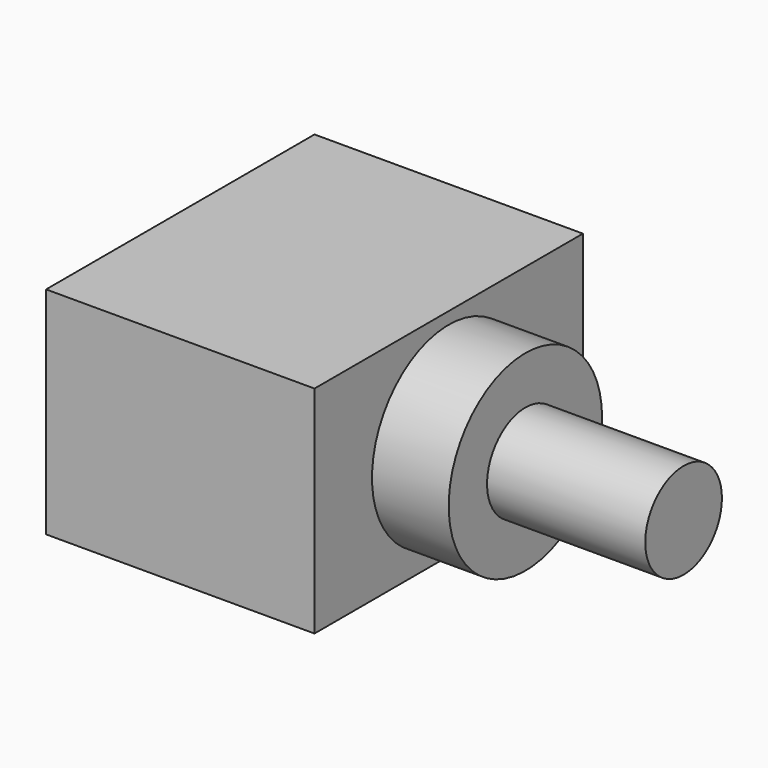
from build123d import *

# Parameters (mm, degrees)
SKETCH_W     = 5.6
SKETCH_H     = 7
PAD_DEPTH    = 4.5
SKETCH001_R  = 2
PAD001_DEPTH = 1.6
SKETCH002_R  = 1
PAD002_DEPTH = 3.3


with BuildPart() as part:
    with BuildSketch(Plane.XY):
        with Locations((196.193, -74.803)):
            Rectangle(SKETCH_W, SKETCH_H)
    extrude(amount=PAD_DEPTH)

    # Sketch001 (on Face2 of Pad) → Pad001 (join)
    with BuildSketch(Plane.YZ.offset(198.993)):
        with Locations((-74.803, 2.25)):
            Circle(SKETCH001_R)
    extrude(amount=PAD001_DEPTH)

    # Sketch002 (on Face8 of Pad001) → Pad002 (join)
    with BuildSketch(Plane.YZ.offset(200.593)):
        with Locations((-74.803, 2.25)):
            Circle(SKETCH002_R)
    extrude(amount=PAD002_DEPTH)


solid = part.part
